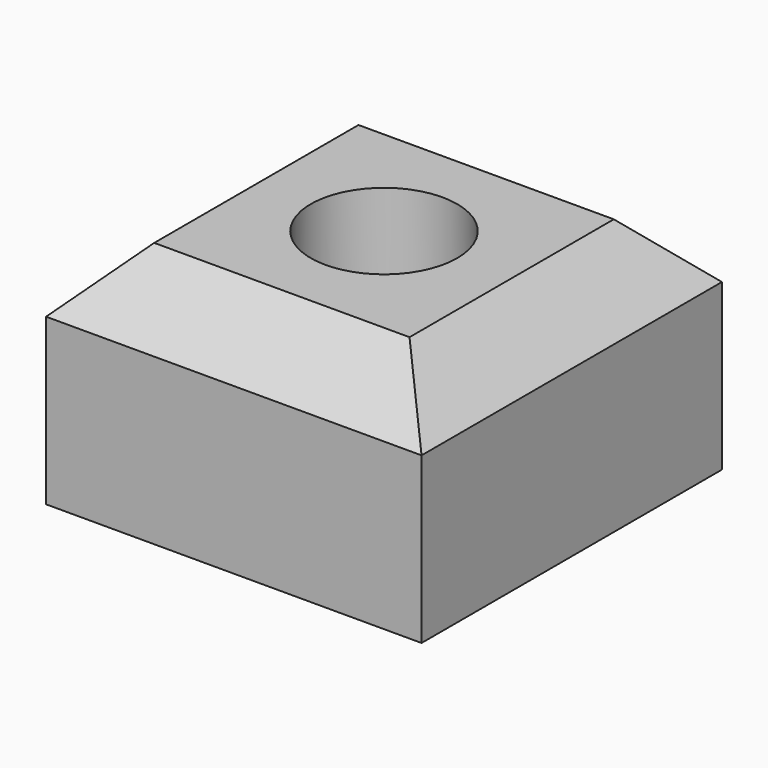
from build123d import *

# Parameters (mm, degrees)
F0_W           = 25
F0_H           = 25
F1_DEPTH       = 15
F2_SIZE        = 4
F4_D           = 5.2
F4_CBORE_D     = 9.75
F4_CBORE_DEPTH = 8


with BuildPart() as f1:
    # F0 (on Top) → F1 (new body)
    with BuildSketch(Plane.XY):
        Rectangle(F0_W, F0_H)
    extrude(amount=F1_DEPTH)

    # F2
    f2_edges = [f1.edges().sort_by_distance(p)[0] for p in [
        (-12.5, 0, 15),
        (0, 12.5, 15),
        (12.5, 0, 15),
        (0, -12.5, 15),
    ]]
    chamfer(f2_edges, length=F2_SIZE)

    # F4 (through all)
    with Locations(Plane.XY.offset(15)):
        with Locations((0, 0)):
            CounterBoreHole(F4_D / 2, F4_CBORE_D / 2, F4_CBORE_DEPTH)


solid = f1.part
